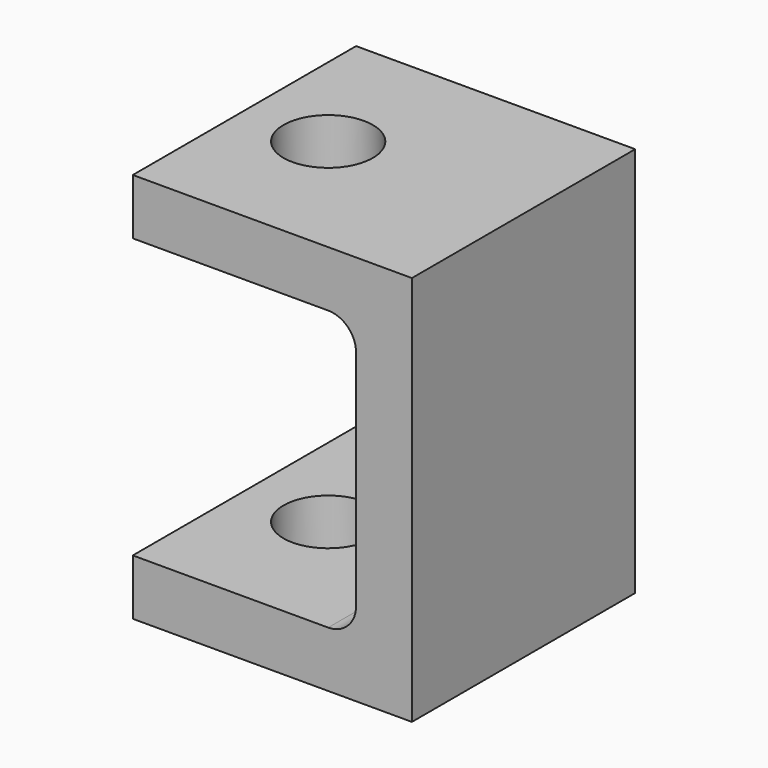
from build123d import *

# Parameters (mm, degrees)
F1_DEPTH = 25
F4_D     = 16
F5_R     = 5


with BuildPart() as f1:
    # F0 (on Front) → F1 (new body, symmetric)
    with BuildSketch(Plane.XZ):
        Polygon((40, 0), (50, 0), (50, 35), (0, 35), (0, 25), (40, 25), align=None)
    extrude(amount=F1_DEPTH, both=True)

    # F2: F1 across plane


with BuildPart() as f1_1:
    add(f1.part)
    add(f1.part.mirror(Plane.XY))

    # F4 (through all)
    with Locations(Plane.XY.offset(35)):
        with Locations((15, 0)):
            Hole(F4_D / 2)

    # F5
    f5_edges = [f1_1.edges().sort_by_distance(p)[0] for p in [
        (40, 0, 25),
        (40, 0, -25),
    ]]
    fillet(f5_edges, radius=F5_R)


solid = f1_1.part
